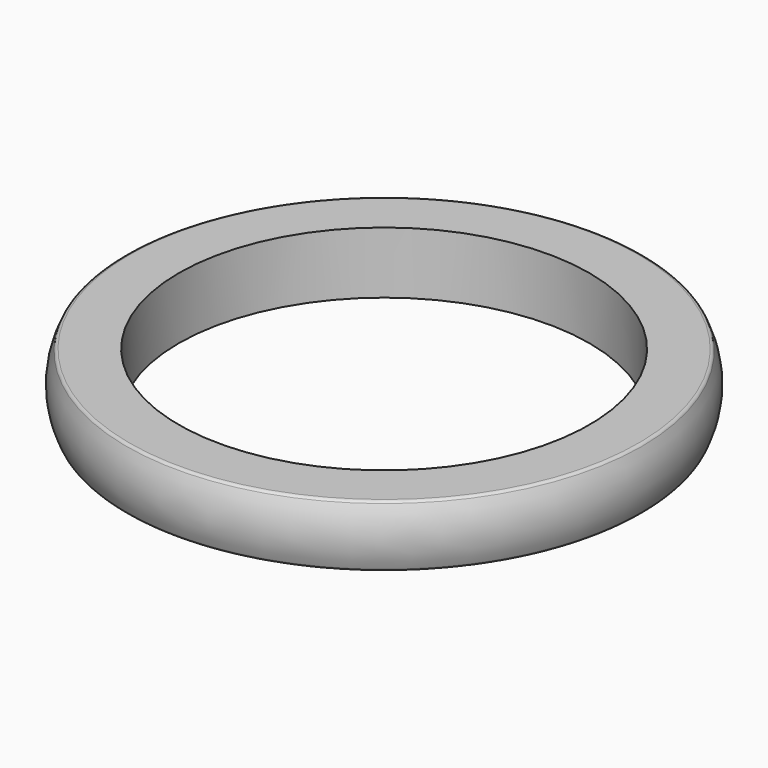
from build123d import *

# Parameters (mm, degrees)
F0_W = 1.5
F0_H = 1.8
F2_R = 0.1


with BuildPart() as f1:
    # F0 (on Front) → F1 (revolve)
    with BuildSketch(Plane.XZ):
        with Locations((-6.736057, 0)):
            Rectangle(F0_W, F0_H)
        with BuildLine():
            Line((-7.486057, -0.9), (-7.486057, 0.9))
            ThreePointArc((-7.486057, 0.9), (-7.7, 0), (-7.486057, -0.9))
        make_face()
    revolve(axis=Axis((0, 0, 4.816466), (0, 0, 1)))

    # F2
    f2_edges = [f1.edges().sort_by_distance(p)[0] for p in [
        (7.486057, 0, 0.9),
        (7.486057, 0, -0.9),
    ]]
    fillet(f2_edges, radius=F2_R)


solid = f1.part
